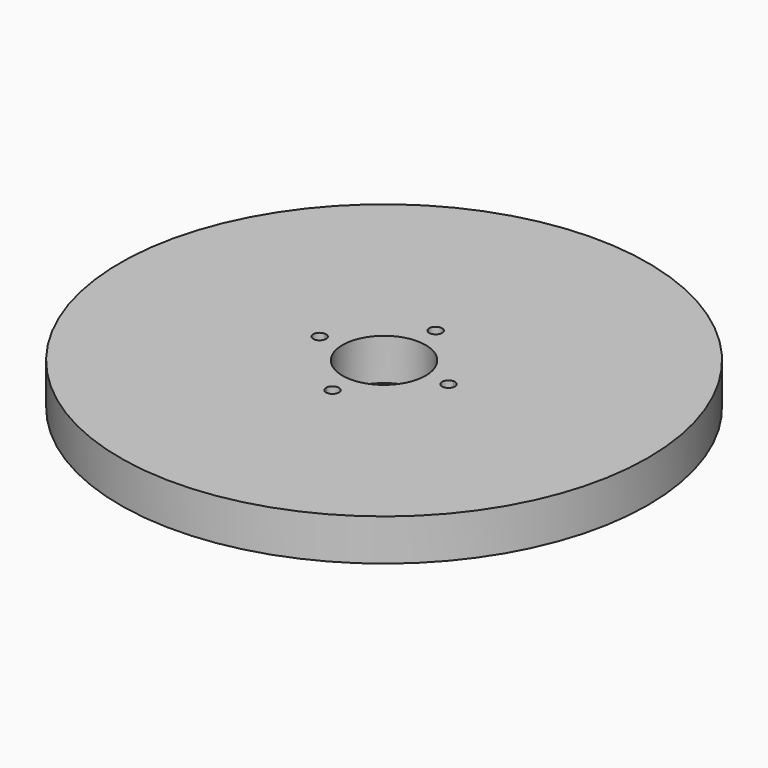
from build123d import *

# Parameters (mm, degrees)
F0_R     = 63.5
F0_R_2   = 10
F1_DEPTH = 10


with BuildPart() as f1:
    # F0 (on Top) → F1 (new body)
    with BuildSketch(Plane.XY):
        Circle(F0_R)
        with BuildLine():
            ThreePointArc((1.548061, 15.4225), (10.960155, 10.960155), (15.4225, 1.548061))
            ThreePointArc((15.4225, 1.548061), (16.568264, 1.123082), (17.05, 0))
            ThreePointArc((17.05, 0), (16.568264, -1.123082), (15.4225, -1.548061))
            ThreePointArc((15.4225, -1.548061), (10.960155, -10.960155), (1.548061, -15.4225))
            ThreePointArc((1.548061, -15.4225), (1.549515, -15.461238), (1.55, -15.5))
            ThreePointArc((1.55, -15.5), (-0.038762, -17.049515), (-1.548061, -15.4225))
            ThreePointArc((-1.548061, -15.4225), (-10.960155, -10.960155), (-15.4225, -1.548061))
            ThreePointArc((-15.4225, -1.548061), (-17.05, 0), (-15.4225, 1.548061))
            ThreePointArc((-15.4225, 1.548061), (-10.960155, 10.960155), (-1.548061, 15.4225))
            ThreePointArc((-1.548061, 15.4225), (-0.038762, 17.049515), (1.55, 15.5))
            ThreePointArc((1.55, 15.5), (1.549515, 15.461238), (1.548061, 15.4225))
        make_face(mode=Mode.SUBTRACT)
        with BuildLine():
            ThreePointArc((15.4225, -1.548061), (13.95, 0), (15.4225, 1.548061))
            ThreePointArc((15.4225, 1.548061), (10.960155, 10.960155), (1.548061, 15.4225))
            ThreePointArc((1.548061, 15.4225), (0, 13.95), (-1.548061, 15.4225))
            ThreePointArc((-1.548061, 15.4225), (-10.960155, 10.960155), (-15.4225, 1.548061))
            ThreePointArc((-15.4225, 1.548061), (-14.376918, 1.068264), (-13.95, 0))
            ThreePointArc((-13.95, 0), (-14.376918, -1.068264), (-15.4225, -1.548061))
            ThreePointArc((-15.4225, -1.548061), (-10.960155, -10.960155), (-1.548061, -15.4225))
            ThreePointArc((-1.548061, -15.4225), (0, -13.95), (1.548061, -15.4225))
            ThreePointArc((1.548061, -15.4225), (10.960155, -10.960155), (15.4225, -1.548061))
        make_face()
        Circle(F0_R_2, mode=Mode.SUBTRACT)
    extrude(amount=F1_DEPTH)


solid = f1.part
